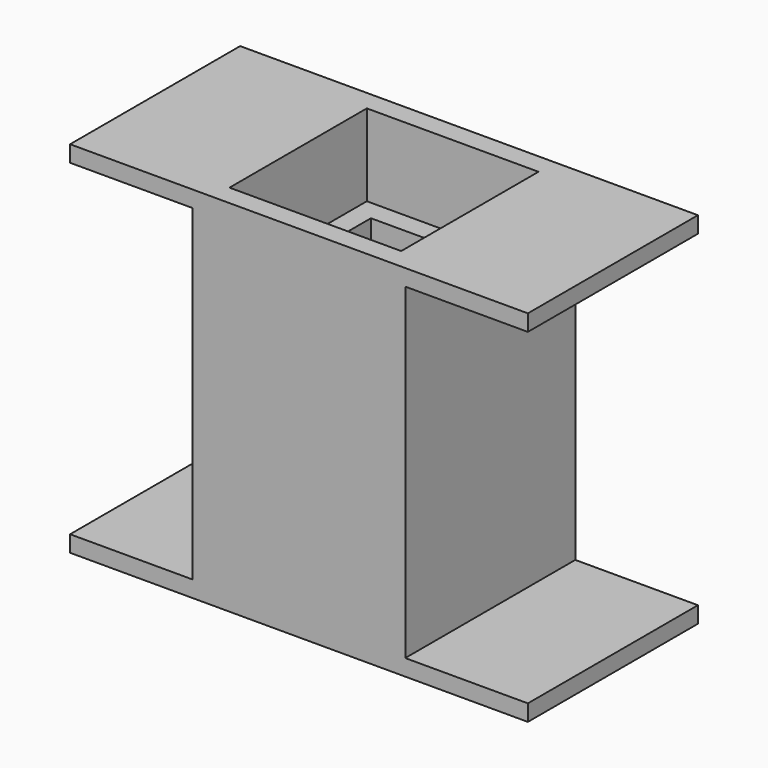
from build123d import *

# Parameters (mm, degrees)
F0_W      = 26
F0_H      = 26
F0_W_2    = 16
F0_H_2    = 16
F1_DEPTH  = 2
F2_DEPTH  = 40
F3_W      = 26
F3_H      = 26
F3_W_2    = 18
F3_H_2    = 18
F4_DEPTH  = 4
F7_W      = 14
F7_H      = 6
F8_DEPTH  = 15.3
F9_W      = 15
F9_H      = 26
F10_DEPTH = 2
F11_W     = 15
F11_H     = 26
F12_DEPTH = 2
F13_W     = 21
F13_H     = 21
F14_DEPTH = 10


with BuildPart() as f1:
    # F0 (on Top) → F1 (new body)
    with BuildSketch(Plane.XY):
        Rectangle(F0_W, F0_H)
        Rectangle(F0_W_2, F0_H_2, mode=Mode.SUBTRACT)
        Rectangle(F0_W, F0_H)
        Rectangle(F0_W_2, F0_H_2, mode=Mode.SUBTRACT)
        Rectangle(F0_W_2, F0_H_2)
    extrude(amount=F1_DEPTH)

    # F0 (on Top) → F2 (join)
    with BuildSketch(Plane.XY):
        Rectangle(F0_W, F0_H)
        Rectangle(F0_W_2, F0_H_2, mode=Mode.SUBTRACT)
        Rectangle(F0_W, F0_H)
        Rectangle(F0_W_2, F0_H_2, mode=Mode.SUBTRACT)
    extrude(amount=F2_DEPTH)

    # F3 (on face) → F4 (join)
    with BuildSketch(Plane.XY.offset(40)):
        Rectangle(F3_W, F3_H)
        Rectangle(F3_W_2, F3_H_2, mode=Mode.SUBTRACT)
    extrude(amount=F4_DEPTH)

    # F7 (on face) → F8 (cut)
    with BuildSketch(Plane(origin=(0, 13, 0), x_dir=(-1, 0, 0), z_dir=(0, 1, 0))):
        with Locations((0, 5)):
            Rectangle(F7_W, F7_H)
    extrude(amount=-F8_DEPTH, mode=Mode.SUBTRACT)

    # F9 (on face) → F10 (join)
    with BuildSketch(Plane.XY.offset(44)):
        with Locations((-20.5, 0)):
            Rectangle(F9_W, F9_H)
        with Locations((20.5, 0)):
            Rectangle(F9_W, F9_H)
    extrude(amount=-F10_DEPTH)

    # F11 (on face) → F12 (join)
    with BuildSketch(Plane.XY):
        with Locations((-20.5, 0)):
            Rectangle(F11_W, F11_H)
        with Locations((20.5, 0)):
            Rectangle(F11_W, F11_H)
    extrude(amount=F12_DEPTH)

    # F13 (on face) → F14 (cut)
    with BuildSketch(Plane.XY.offset(44)):
        Rectangle(F13_W, F13_H)
    extrude(amount=-F14_DEPTH, mode=Mode.SUBTRACT)


solid = f1.part
